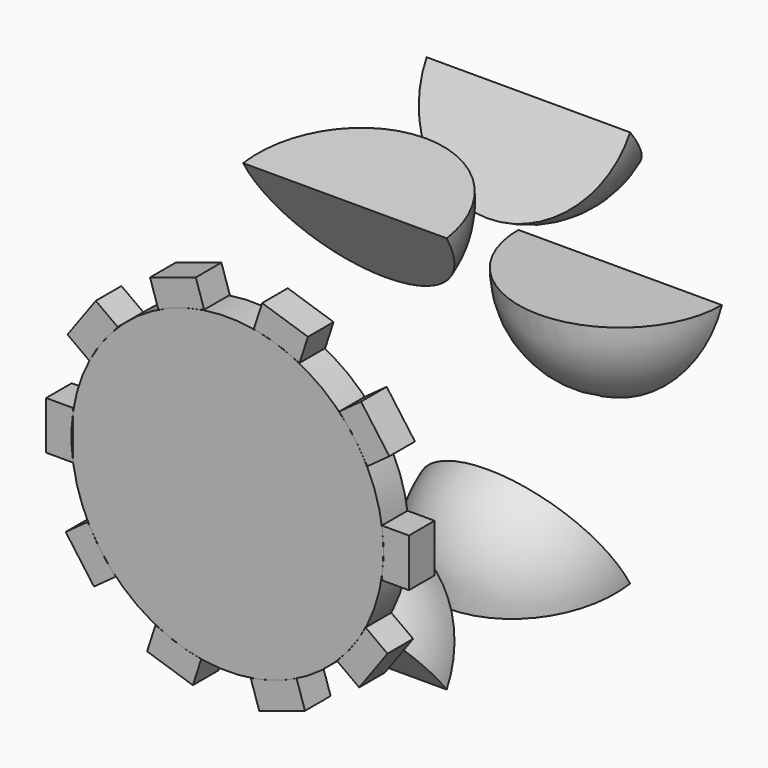
from build123d import *

# Parameters (mm, degrees)
F1_ANGLE = 67.925324614
F3_COUNT = 6
F5_DEPTH = 11.684
F7_COUNT = 10


with BuildPart() as f1:
    # F0 (on Top) → F1 (revolve)
    with BuildSketch(Plane.XY):
        with BuildLine():
            Line((-37.1018837607, 0), (37.1018837607, 0))
            ThreePointArc((37.1018837607, 0), (0, 37.1018837607), (-37.1018837607, 0))
        make_face()
    revolve(axis=Axis((0, 0, 0), (1, 0, 0)), revolution_arc=F1_ANGLE)


with BuildPart() as f3_1:
    # F3: instance of F1
    add(f1.part.rotate(Axis((92.431826517, 83.6095735431, 0), (1, 0, 0)), 1 * 360 / F3_COUNT))


with BuildPart() as f3_2:
    # F3: instance of F1
    add(f1.part.rotate(Axis((92.431826517, 83.6095735431, 0), (1, 0, 0)), 2 * 360 / F3_COUNT))


with BuildPart() as f3_3:
    # F3: instance of F1
    add(f1.part.rotate(Axis((92.431826517, 83.6095735431, 0), (1, 0, 0)), 3 * 360 / F3_COUNT))


with BuildPart() as f3_4:
    # F3: instance of F1
    add(f1.part.rotate(Axis((92.431826517, 83.6095735431, 0), (1, 0, 0)), 4 * 360 / F3_COUNT))


with BuildPart() as f3_5:
    # F3: instance of F1
    add(f1.part.rotate(Axis((92.431826517, 83.6095735431, 0), (1, 0, 0)), 5 * 360 / F3_COUNT))


with BuildPart() as f5:
    # F4 (on Front) → F5 (new body)
    with BuildSketch(Plane.XZ):
        with BuildLine():
            Line((-56.2696190703, 8.209508651), (-56.2696190703, -8.209508651))
            ThreePointArc((-56.2696190703, -8.209508651), (4.1155469568, -56.7162087577), (56.8653326958, 0))
            ThreePointArc((56.8653326958, 0), (4.1155469568, 56.7162087577), (-56.2696190703, 8.209508651))
        make_face()
    extrude(amount=F5_DEPTH)


with BuildPart() as f5b:
    # F4 (on Front) → F5, piece 2 (new body)
    with BuildSketch(Plane.XZ):
        with BuildLine():
            Line((-66.1290064454, -8.209508651), (-56.2696190703, -8.209508651))
            ThreePointArc((-56.2696190703, -8.209508651), (-56.8653326958, 0), (-56.2696190703, 8.209508651))
            Line((-56.2696190703, 8.209508651), (-56.2696190703, 9.3361856416))
            Line((-56.2696190703, 9.3361856416), (-66.1290064454, 9.3361856416))
            Line((-66.1290064454, 9.3361856416), (-66.1290064454, -8.209508651))
        make_face()
    extrude(amount=F5_DEPTH)


with BuildPart() as f7_1:
    # F7: instance of F5b
    add(f5b.part.rotate(Axis((0, -25.0005237758, 0), (0, -1, 0)), 1 * 360 / F7_COUNT))


with BuildPart() as f7_2:
    # F7: instance of F5b
    add(f5b.part.rotate(Axis((0, -25.0005237758, 0), (0, -1, 0)), 2 * 360 / F7_COUNT))


with BuildPart() as f7_3:
    # F7: instance of F5b
    add(f5b.part.rotate(Axis((0, -25.0005237758, 0), (0, -1, 0)), 3 * 360 / F7_COUNT))


with BuildPart() as f7_4:
    # F7: instance of F5b
    add(f5b.part.rotate(Axis((0, -25.0005237758, 0), (0, -1, 0)), 4 * 360 / F7_COUNT))


with BuildPart() as f7_5:
    # F7: instance of F5b
    add(f5b.part.rotate(Axis((0, -25.0005237758, 0), (0, -1, 0)), 5 * 360 / F7_COUNT))


with BuildPart() as f7_6:
    # F7: instance of F5b
    add(f5b.part.rotate(Axis((0, -25.0005237758, 0), (0, -1, 0)), 6 * 360 / F7_COUNT))


with BuildPart() as f7_7:
    # F7: instance of F5b
    add(f5b.part.rotate(Axis((0, -25.0005237758, 0), (0, -1, 0)), 7 * 360 / F7_COUNT))


with BuildPart() as f7_8:
    # F7: instance of F5b
    add(f5b.part.rotate(Axis((0, -25.0005237758, 0), (0, -1, 0)), 8 * 360 / F7_COUNT))


with BuildPart() as f7_9:
    # F7: instance of F5b
    add(f5b.part.rotate(Axis((0, -25.0005237758, 0), (0, -1, 0)), 9 * 360 / F7_COUNT))


solid = Compound([f1.part, f3_1.part, f3_2.part, f3_3.part, f3_4.part, f3_5.part, f5.part, f5b.part, f7_1.part, f7_2.part, f7_3.part, f7_4.part, f7_5.part, f7_6.part, f7_7.part, f7_8.part, f7_9.part])
